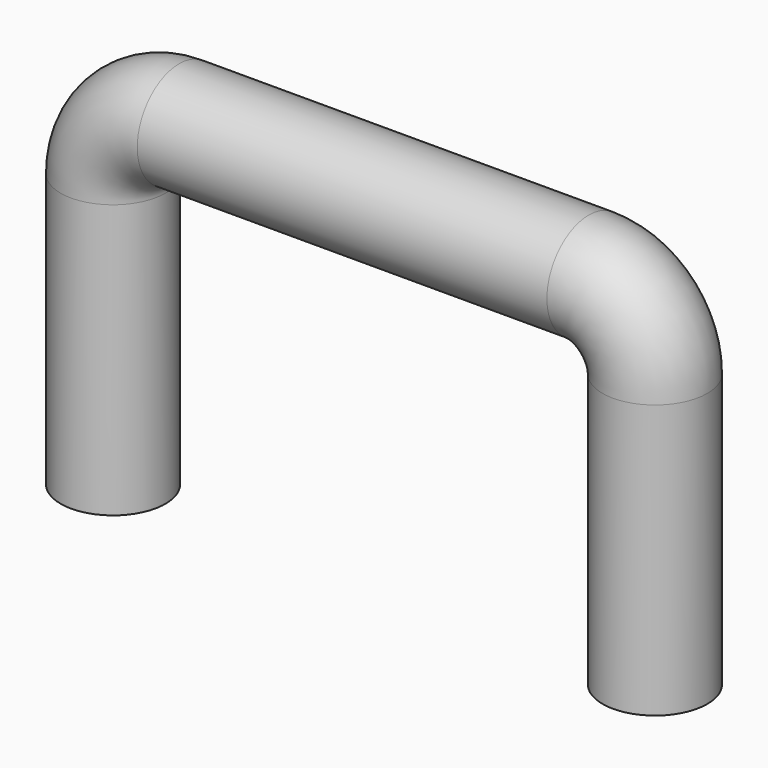
from build123d import *

# Parameters (mm, degrees)
F1_R = 4.8459943269


with BuildPart() as f2:
    # F2: sweep along a path in F0
    with BuildLine(Plane.XZ) as f2_path:
        Line((23.4646201134, 0), (23.4646201134, 25.2902167082))
        ThreePointArc((23.4646201134, 25.2902167082), (21.6047481739, 29.7803447687), (17.1146201134, 31.6402167082))
        Line((17.1146201134, 31.6402167082), (-20.7740919828, 31.6402167082))
        ThreePointArc((-20.7740919828, 31.6402167082), (-25.2642200434, 29.7803447687), (-27.1240919828, 25.2902167082))
        Line((-27.1240919828, 25.2902167082), (-27.1240919828, 0))
    # F1 (on Top) → F2 (sweep)
    with BuildSketch(Plane.XY):
        with Locations((23.2312511653, 0)):
            Circle(F1_R)
    sweep(path=f2_path.line)


solid = f2.part
